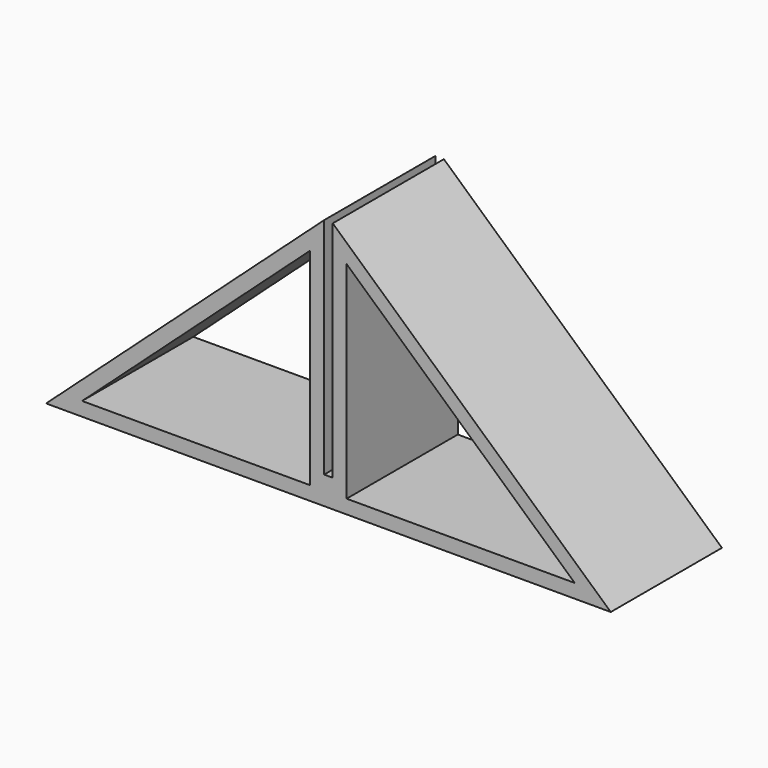
from build123d import *

# Parameters (mm, degrees)
F1_DEPTH = 25


with BuildPart() as f1:
    # F0 (on Front) → F1 (new body, symmetric)
    with BuildSketch(Plane.XZ):
        Polygon((-101.6, 0), (0, 0), (101.6, 0), (1.55, 90.607343), (1.55, 10), (-1.55, 10), (-1.55, 90.607343), align=None)
        Polygon((-6.55, 79.333595), (-6.55, 5), (-88.630282, 5), align=None, mode=Mode.SUBTRACT)
        Polygon((88.630282, 5), (6.55, 5), (6.55, 79.333595), align=None, mode=Mode.SUBTRACT)
    extrude(amount=F1_DEPTH, both=True)


solid = f1.part
